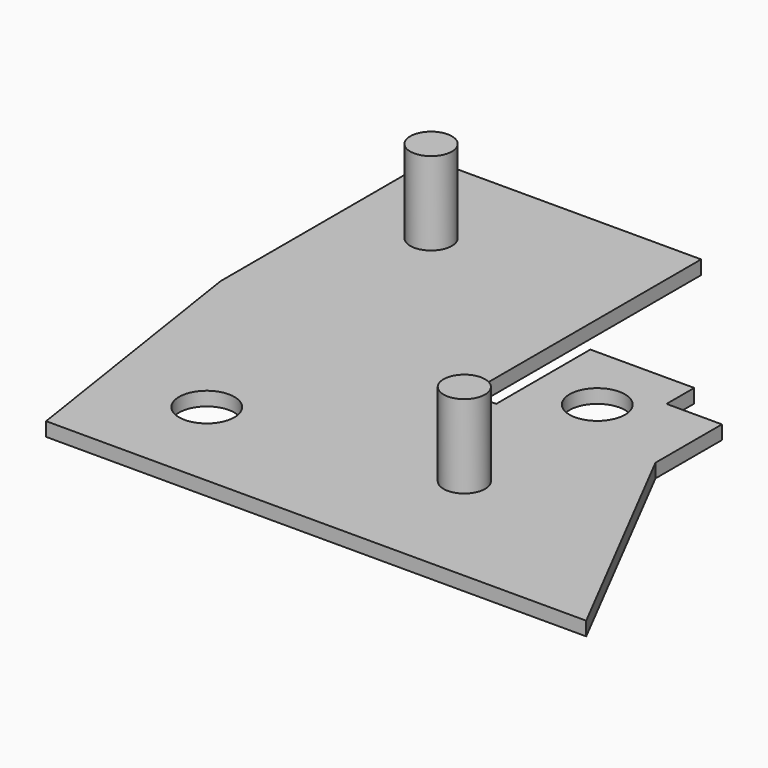
from build123d import *

# Parameters (mm, degrees)
PAD_DEPTH    = 1
SKETCH001_R  = 1.5
PAD001_DEPTH = 6
SKETCH002_R  = 2
POCKET_DEPTH = 1.001


with BuildPart() as part:
    # Sketch → Pad (new body)
    with BuildSketch(Plane.XY):
        Polygon((0, 0), (39, 0), (30, 17.5), (30, 23.5), (26, 23.5), (26, 26), (18.5, 26), (18.5, 17.5), (16.5, 17.5), (16.5, 38.5), (-3, 38.5), (-3, 19.5), align=None)
    extrude(amount=PAD_DEPTH)

    # Sketch001 (on Face14 of Pad) → Pad001 (join)
    with BuildSketch(Plane.XY.offset(1)):
        with Locations((3, 31)):
            Circle(SKETCH001_R)
        with Locations((23, 9)):
            Circle(SKETCH001_R)
    extrude(amount=PAD001_DEPTH)

    # Sketch002 (on Face5 of Pad001) → Pocket (cut, through all)
    with BuildSketch(Plane.XY.offset(1)):
        with Locations((6, 7)):
            Circle(SKETCH002_R)
        with Locations((23, 21)):
            Circle(SKETCH002_R)
    extrude(amount=-POCKET_DEPTH, mode=Mode.SUBTRACT)


solid = part.part
